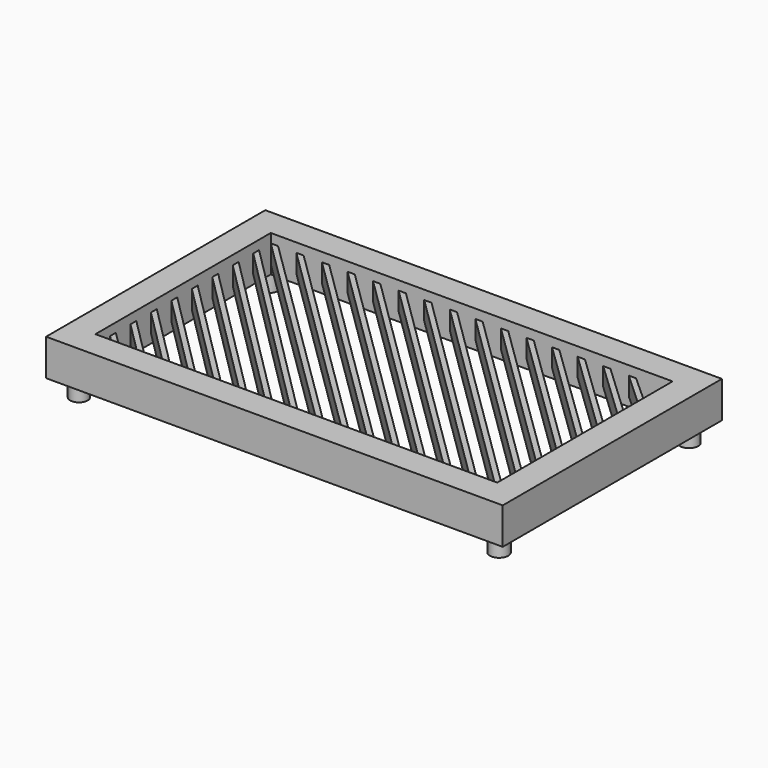
from build123d import *

# Parameters (mm, degrees)
F0_W     = 125
F0_H     = 75
F1_DEPTH = 5
F2_DEPTH = 2.5
F3_R     = 2.405164
F3_R_2   = 2.5
F4_DEPTH = 5


with BuildPart() as f1:
    # F0 (on Top) → F1 (new body, symmetric)
    with BuildSketch(Plane.XY):
        Rectangle(F0_W, F0_H)
        Polygon((-55, 26), (-55, 30), (-53, 30), (-48, 30), (-46, 30), (-41, 30), (-39, 30), (-34, 30), (-32, 30), (-27, 30), (-25, 30), (-20, 30), (-18, 30), (-13, 30), (-11, 30), (-6, 30), (-4, 30), (1, 30), (3, 30), (8, 30), (10, 30), (15, 30), (17, 30), (22, 30), (24, 30), (29, 30), (31, 30), (36, 30), (38, 30), (43, 30), (45, 30), (55, 30), (55, 20.999727), (55, 18.999727), (55, 13.999727), (55, 11.999727), (55, 6.999727), (55, 4.999727), (55, -0.000273), (55, -2.000273), (55, -7.000273), (55, -9.000273), (55, -14.000273), (55, -16.000273), (55, -21.000273), (55, -23.000273), (55, -28), (55, -30), (50, -30), (48, -30), (43, -30), (41, -30), (36, -30), (34, -30), (29, -30), (27, -30), (22, -30), (20, -30), (15, -30), (13, -30), (8, -30), (6, -30), (1, -30), (-1, -30), (-6, -30), (-8, -30), (-13, -30), (-15, -30), (-20, -30), (-22, -30), (-27, -30), (-29, -30), (-34, -30), (-36, -30), (-41, -30), (-43, -30), (-48, -30), (-50, -30), (-55, -30), (-55, -25), (-55, -23), (-55, -18), (-55, -16), (-55, -11), (-55, -9), (-55, -4), (-55, -2), (-55, 3), (-55, 5), (-55, 10), (-55, 12), (-55, 17), (-55, 19), (-55, 24), align=None, mode=Mode.SUBTRACT)
    extrude(amount=F1_DEPTH, both=True)

    # F0 (on Top) → F2 (join, symmetric)
    with BuildSketch(Plane.XY):
        Polygon((-48, -30), (-55, -23), (-55, -25), (-50, -30), align=None)
        Polygon((-41, -30), (-55, -16), (-55, -18), (-43, -30), align=None)
        Polygon((-34, -30), (-55, -9), (-55, -11), (-36, -30), align=None)
        Polygon((-27, -30), (-55, -2), (-55, -4), (-29, -30), align=None)
        Polygon((-20, -30), (-55, 5), (-55, 3), (-22, -30), align=None)
        Polygon((-13, -30), (-55, 12), (-55, 10), (-15, -30), align=None)
        Polygon((-6, -30), (-55, 19), (-55, 17), (-8, -30), align=None)
        Polygon((1, -30), (-55, 26), (-55, 24), (-1, -30), align=None)
        Polygon((-53, 30), (-55, 30), (6, -30), (8, -30), align=None)
        Polygon((-46, 30), (-48, 30), (13, -30), (15, -30), align=None)
        Polygon((-39, 30), (-41, 30), (20, -30), (22, -30), align=None)
        Polygon((-32, 30), (-34, 30), (27, -30), (29, -30), align=None)
        Polygon((-25, 30), (-27, 30), (34, -30), (36, -30), align=None)
        Polygon((-18, 30), (-20, 30), (41, -30), (43, -30), align=None)
        Polygon((-11, 30), (-13, 30), (48, -30), (50, -30), align=None)
        Polygon((3, 30), (1, 30), (55, -23.000273), (55, -21.000273), align=None)
        Polygon((10, 30), (8, 30), (55, -16.000273), (55, -14.000273), align=None)
        Polygon((45, 30), (43, 30), (55, 18.999727), (55, 20.999727), align=None)
        Polygon((38, 30), (36, 30), (55, 11.999727), (55, 13.999727), align=None)
        Polygon((31, 30), (29, 30), (55, 4.999727), (55, 6.999727), align=None)
        Polygon((24, 30), (22, 30), (55, -2.000273), (55, -0.000273), align=None)
        Polygon((17, 30), (15, 30), (55, -9.000273), (55, -7.000273), align=None)
        Polygon((-4, 30), (-6, 30), (55, -30), (55, -28), align=None)
    extrude(amount=F2_DEPTH, both=True)

    # F3 (on face) → F4 (join)
    with BuildSketch(Plane(origin=(0, 0, -5), x_dir=(1, 0, 0), z_dir=(0, 0, -1))):
        with Locations((-57.5, 32.5)):
            Circle(F3_R)
        with Locations((57.5, 32.5)):
            Circle(F3_R_2)
        with Locations((57.5, -32.5)):
            Circle(F3_R_2)
        with Locations((-57.5, -32.5)):
            Circle(F3_R_2)
    extrude(amount=F4_DEPTH)


solid = f1.part
